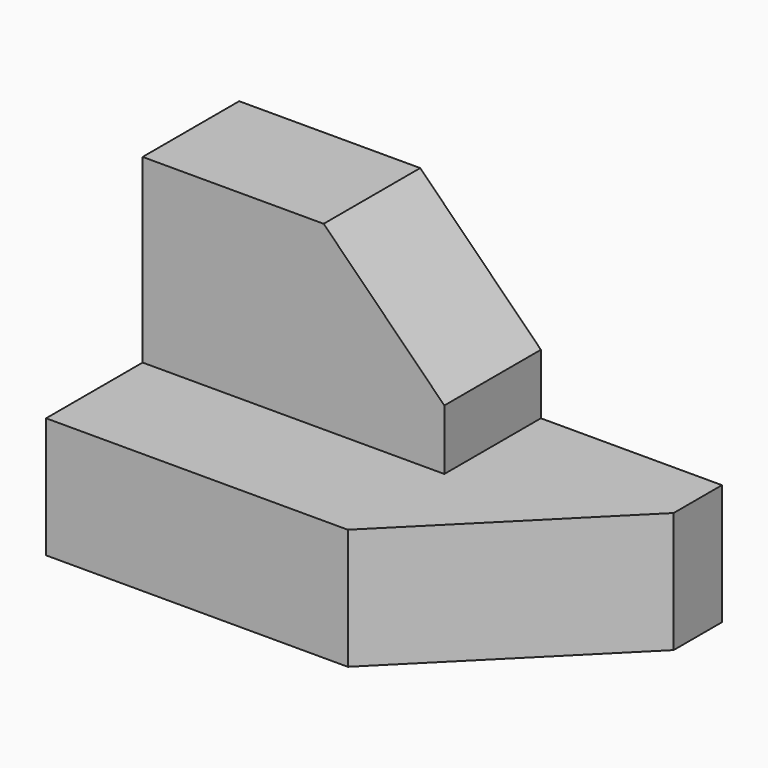
from build123d import *

# Parameters (mm, degrees)
F1_DEPTH = 50.8
F2_W     = 127
F2_H     = 50.8
F3_DEPTH = 76.2
F4_SIZE  = 50.8


with BuildPart() as f1:
    # F0 (on Top) → F1 (new body)
    with BuildSketch(Plane.XY):
        Polygon((-65.568145, 25.4), (-65.568145, -76.2), (61.431855, -76.2), (137.631855, 0), (137.631855, 25.4), align=None)
    extrude(amount=F1_DEPTH)

    # F2 (on face) → F3 (join)
    with BuildSketch(Plane.XY.offset(50.8)):
        with Locations((-2.068145, 0)):
            Rectangle(F2_W, F2_H)
    extrude(amount=F3_DEPTH)

    # F4
    f4_edges = [f1.edges().sort_by_distance(p)[0] for p in [
        (61.431855, 0, 127),
    ]]
    chamfer(f4_edges, length=F4_SIZE)


solid = f1.part
